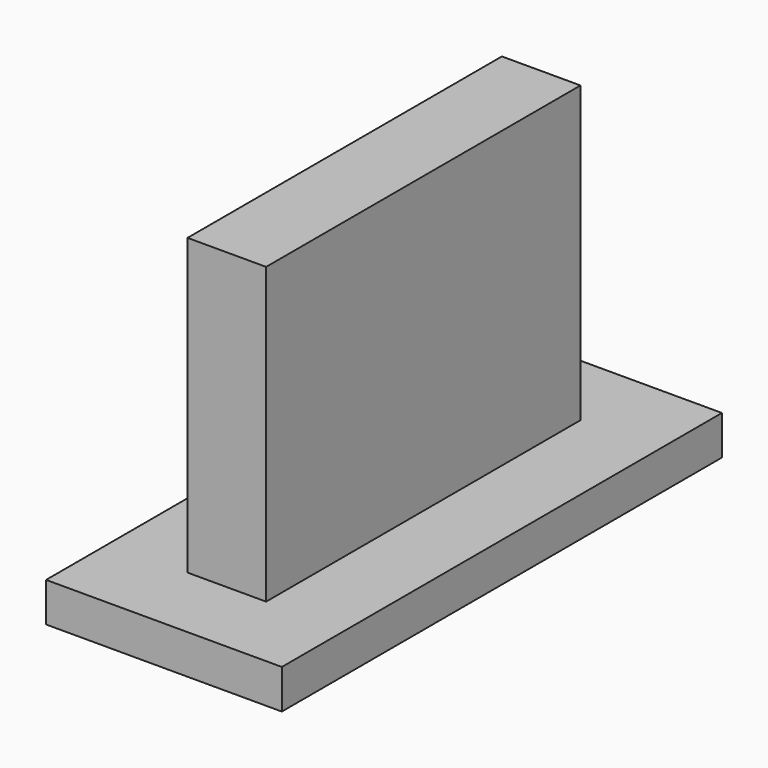
from build123d import *

# Parameters (mm, degrees)
BOX023_W     = 2
BOX023_H     = 10
BOX023_DEPTH = 8.5
BOX025_W     = 6
BOX025_H     = 14
BOX025_DEPTH = 1


with BuildPart() as control_button_rec_c:
    # Box023 → Box023 (new body)
    with BuildSketch(Plane(origin=(57.3, 93.3, 9.6), x_dir=(1, 0, 0), z_dir=(0, 0, 1))):
        with Locations((1, 5)):
            Rectangle(BOX023_W, BOX023_H)
    extrude(amount=BOX023_DEPTH)


with BuildPart() as control_button_rec:
    # Box025 → Box025 (new body)
    with BuildSketch(Plane(origin=(55.3, 91.3, 9.6), x_dir=(1, 0, 0), z_dir=(0, 0, 1))):
        with Locations((3, 7)):
            Rectangle(BOX025_W, BOX025_H)
    extrude(amount=BOX025_DEPTH)

    # Fusion036: union control_button_rec_c
    add(control_button_rec_c.part)


solid = control_button_rec.part
